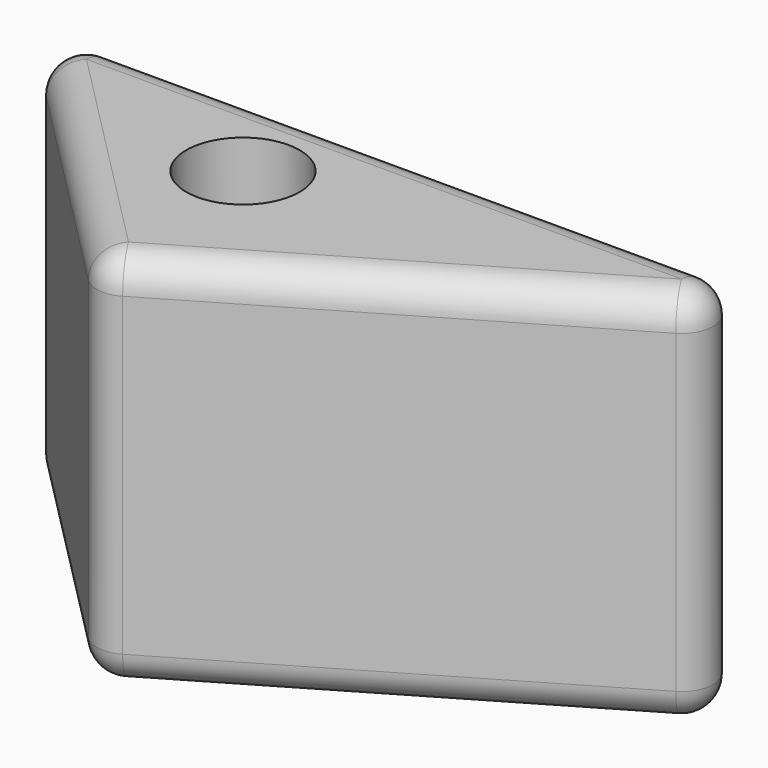
from build123d import *

# Parameters (mm, degrees)
F1_DEPTH = 60
F2_R     = 9
F3_DEPTH = 60.001
F4_R     = 5
F5_R     = 5


with BuildPart() as f1:
    # F0 (on Top) → F1 (new body)
    with BuildSketch(Plane.XY):
        Polygon((-45.866266, 46.307288), (0, 0), (78.942902, 46.307288), align=None)
    extrude(amount=F1_DEPTH)

    # F2 (on face) → F3 (cut, through all)
    with BuildSketch(Plane.XY.offset(60)):
        with Locations((0, 30)):
            Circle(F2_R)
    extrude(amount=-F3_DEPTH, mode=Mode.SUBTRACT)

    # F4
    f4_edges = [f1.edges().sort_by_distance(p)[0] for p in [
        (-45.866266, 46.307288, 30),
        (0, 0, 30),
        (78.942902, 46.307288, 30),
    ]]
    fillet(f4_edges, radius=F4_R)

    # F5
    f5_edges = [f1.edges().sort_by_distance(p)[0] for p in [
        (33.208191, 19.479665, 0),
        (33.208191, 19.479665, 60),
    ]]
    fillet(f5_edges, radius=F5_R)


solid = f1.part
